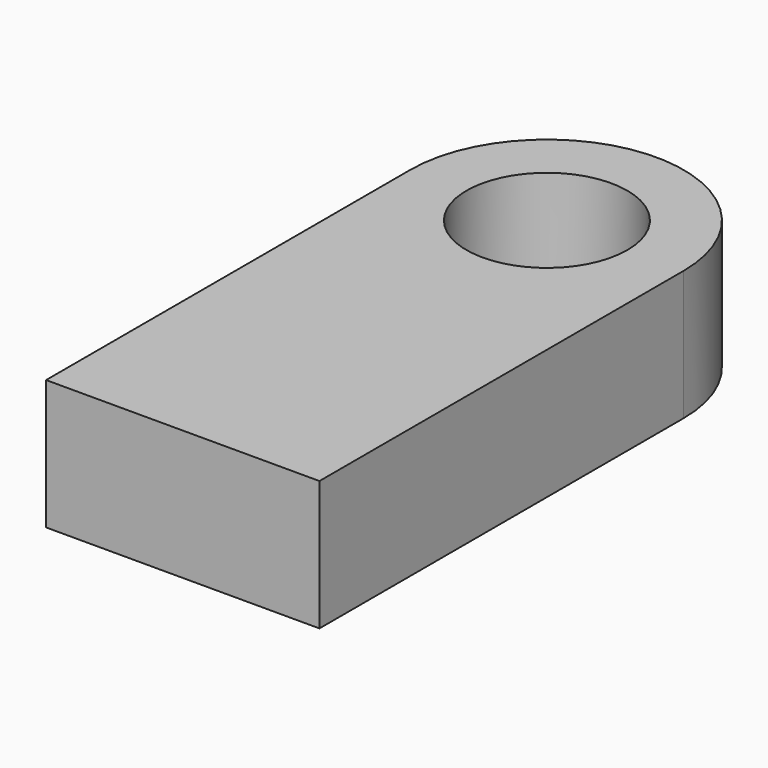
from build123d import *

# Parameters (mm, degrees)
F0_R     = 15.748049
F1_DEPTH = 25.4


with BuildPart() as f1:
    # F0 (on Top) → F1 (new body)
    with BuildSketch(Plane.XY):
        with BuildLine():
            Line((-26.755344, 44.549569), (-26.755344, -44.549569))
            Line((-26.755344, -44.549569), (26.755344, -44.549569))
            Line((26.755344, -44.549569), (26.755344, 44.549569))
            ThreePointArc((26.755344, 44.549569), (0, 71.304914), (-26.755344, 44.549569))
        make_face()
        with Locations((0, 44.549569)):
            Circle(F0_R, mode=Mode.SUBTRACT)
    extrude(amount=F1_DEPTH)


solid = f1.part
